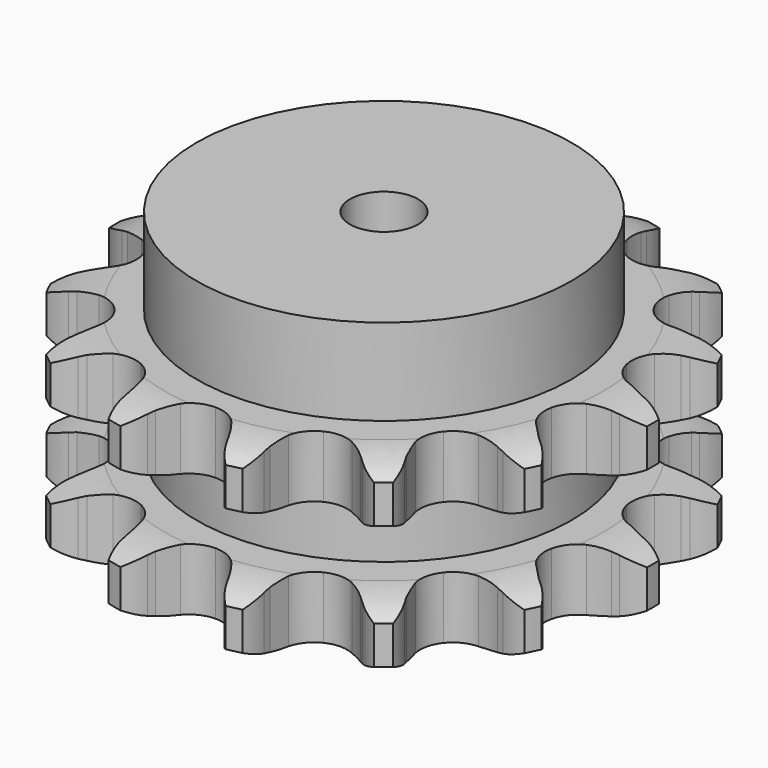
from build123d import *

# Parameters (mm, degrees)
PAD_DEPTH         = 54.6
SKETCH001_R       = 55
PAD001_DEPTH      = 80
SKETCH002_R       = 10
POCKET_DEPTH      = 0.001
POCKET_DEPTH_BACK = 80.001


with BuildPart() as part:
    # Sprocket → Pad (new body)
    with BuildSketch(Plane.XY):
        with BuildLine():
            ThreePointArc((-18.099318, 79.298294), (-14.280151, 76.270886), (-11.550964, 72.233217))
            Line((-11.550964, 72.233217), (-10.674023, 70.376836))
            ThreePointArc((-10.674023, 70.376836), (-9.212948, 67.717581), (-7.438683, 65.256208))
            ThreePointArc((-7.438683, 65.256208), (-4.115883, 62.656814), (0, 61.730877))
            ThreePointArc((0, 61.730877), (4.115883, 62.656814), (7.438683, 65.256208))
            ThreePointArc((7.438683, 65.256208), (9.212948, 67.717581), (10.674023, 70.376836))
            Line((10.674023, 70.376836), (11.550964, 72.233217))
            ThreePointArc((11.550964, 72.233217), (14.280151, 76.270886), (18.099318, 79.298294))
            ThreePointArc((18.099318, 79.298294), (20.226725, 74.913619), (20.933759, 70.091655))
            Line((20.933759, 70.091655), (20.918402, 68.038623))
            ThreePointArc((20.918402, 68.038623), (21.080977, 65.00878), (21.611586, 62.021335))
            ThreePointArc((21.611586, 62.021335), (23.477491, 58.237653), (26.784024, 55.617599))
            ThreePointArc((26.784024, 55.617599), (30.894055, 54.666024), (35.015629, 55.566288))
            Line((35.015629, 55.566288), (40.152327, 58.776053))
            ThreePointArc((40.152327, 58.776053), (40.936753, 59.438563), (41.747877, 60.068104))
            ThreePointArc((41.747877, 60.068104), (45.958669, 62.521768), (50.713162, 63.592294))
            ThreePointArc((50.713162, 63.592294), (50.727451, 58.718792), (49.272295, 54.067582))
            Line((49.272295, 54.067582), (48.367681, 52.224526))
            ThreePointArc((48.367681, 52.224526), (47.199557, 49.424194), (46.381415, 46.502376))
            ThreePointArc((46.381415, 46.502376), (46.420859, 42.283811), (48.263143, 38.488573))
            ThreePointArc((48.263143, 38.488573), (51.553281, 35.847958), (55.6573, 34.870783))
            Line((55.6573, 34.870783), (61.67797, 35.533952))
            ThreePointArc((61.67797, 35.533952), (62.672166, 35.790503), (63.676112, 36.005767))
            ThreePointArc((63.676112, 36.005767), (68.534509, 36.389448), (73.282643, 35.291061))
            ThreePointArc((73.282643, 35.291061), (71.180983, 30.893987), (67.851848, 27.33476))
            Line((67.851848, 27.33476), (66.237148, 26.066722))
            ThreePointArc((66.237148, 26.066722), (63.969686, 24.05054), (61.964836, 21.773052))
            ThreePointArc((61.964836, 21.773052), (60.170007, 17.955142), (60.183155, 13.736412))
            ThreePointArc((60.183155, 13.736412), (62.001747, 9.929764), (65.275361, 7.268693))
            Line((65.275361, 7.268693), (70.987535, 5.253916))
            ThreePointArc((70.987535, 5.253916), (71.994588, 5.053695), (72.992511, 4.812046))
            ThreePointArc((72.992511, 4.812046), (77.536248, 3.049751), (81.337597, 0))
            ThreePointArc((81.337597, 0), (77.536248, -3.049751), (72.992511, -4.812046))
            Line((72.992511, -4.812046), (70.987535, -5.253916))
            ThreePointArc((70.987535, -5.253916), (68.069833, -6.086619), (65.275361, -7.268693))
            ThreePointArc((65.275361, -7.268693), (62.001747, -9.929764), (60.183155, -13.736412))
            ThreePointArc((60.183155, -13.736412), (60.170007, -17.955142), (61.964836, -21.773052))
            Line((61.964836, -21.773052), (66.237148, -26.066722))
            ThreePointArc((66.237148, -26.066722), (67.057599, -26.684059), (67.851848, -27.33476))
            ThreePointArc((67.851848, -27.33476), (71.180983, -30.893987), (73.282643, -35.291061))
            ThreePointArc((73.282643, -35.291061), (68.534509, -36.389448), (63.676112, -36.005767))
            Line((63.676112, -36.005767), (61.67797, -35.533952))
            ThreePointArc((61.67797, -35.533952), (58.687916, -35.018248), (55.6573, -34.870783))
            ThreePointArc((55.6573, -34.870783), (51.553281, -35.847958), (48.263143, -38.488573))
            ThreePointArc((48.263143, -38.488573), (46.420859, -42.283811), (46.381415, -46.502376))
            Line((46.381415, -46.502376), (48.367681, -52.224526))
            ThreePointArc((48.367681, -52.224526), (48.83903, -53.136708), (49.272295, -54.067582))
            ThreePointArc((49.272295, -54.067582), (50.727451, -58.718792), (50.713162, -63.592294))
            ThreePointArc((50.713162, -63.592294), (45.958669, -62.521768), (41.747877, -60.068104))
            Line((41.747877, -60.068104), (40.152327, -58.776053))
            ThreePointArc((40.152327, -58.776053), (37.682137, -57.014083), (35.015629, -55.566288))
            ThreePointArc((35.015629, -55.566288), (30.894055, -54.666024), (26.784024, -55.617599))
            ThreePointArc((26.784024, -55.617599), (23.477491, -58.237653), (21.611586, -62.021335))
            Line((21.611586, -62.021335), (20.918402, -68.038623))
            ThreePointArc((20.918402, -68.038623), (20.947292, -69.06498), (20.933759, -70.091655))
            ThreePointArc((20.933759, -70.091655), (20.226725, -74.913619), (18.099318, -79.298294))
            ThreePointArc((18.099318, -79.298294), (14.280151, -76.270886), (11.550964, -72.233217))
            Line((11.550964, -72.233217), (10.674023, -70.376836))
            ThreePointArc((10.674023, -70.376836), (9.212948, -67.717581), (7.438683, -65.256208))
            ThreePointArc((7.438683, -65.256208), (4.115883, -62.656814), (0, -61.730877))
            ThreePointArc((0, -61.730877), (-4.115883, -62.656814), (-7.438683, -65.256208))
            Line((-7.438683, -65.256208), (-10.674023, -70.376836))
            ThreePointArc((-10.674023, -70.376836), (-11.093314, -71.314086), (-11.550964, -72.233217))
            ThreePointArc((-11.550964, -72.233217), (-14.280151, -76.270886), (-18.099318, -79.298294))
            ThreePointArc((-18.099318, -79.298294), (-20.226725, -74.913619), (-20.933759, -70.091655))
            Line((-20.933759, -70.091655), (-20.918402, -68.038623))
            ThreePointArc((-20.918402, -68.038623), (-21.080977, -65.00878), (-21.611586, -62.021335))
            ThreePointArc((-21.611586, -62.021335), (-23.477491, -58.237653), (-26.784024, -55.617599))
            ThreePointArc((-26.784024, -55.617599), (-30.894055, -54.666024), (-35.015629, -55.566288))
            Line((-35.015629, -55.566288), (-40.152327, -58.776053))
            ThreePointArc((-40.152327, -58.776053), (-40.936753, -59.438563), (-41.747877, -60.068104))
            ThreePointArc((-41.747877, -60.068104), (-45.958669, -62.521768), (-50.713162, -63.592294))
            ThreePointArc((-50.713162, -63.592294), (-50.727451, -58.718792), (-49.272295, -54.067582))
            Line((-49.272295, -54.067582), (-48.367681, -52.224526))
            ThreePointArc((-48.367681, -52.224526), (-47.199557, -49.424194), (-46.381415, -46.502376))
            ThreePointArc((-46.381415, -46.502376), (-46.420859, -42.283811), (-48.263143, -38.488573))
            ThreePointArc((-48.263143, -38.488573), (-51.553281, -35.847958), (-55.6573, -34.870783))
            Line((-55.6573, -34.870783), (-61.67797, -35.533952))
            ThreePointArc((-61.67797, -35.533952), (-62.672166, -35.790503), (-63.676112, -36.005767))
            ThreePointArc((-63.676112, -36.005767), (-68.534509, -36.389448), (-73.282643, -35.291061))
            ThreePointArc((-73.282643, -35.291061), (-71.180983, -30.893987), (-67.851848, -27.33476))
            Line((-67.851848, -27.33476), (-66.237148, -26.066722))
            ThreePointArc((-66.237148, -26.066722), (-63.969686, -24.05054), (-61.964836, -21.773052))
            ThreePointArc((-61.964836, -21.773052), (-60.170007, -17.955142), (-60.183155, -13.736412))
            ThreePointArc((-60.183155, -13.736412), (-62.001747, -9.929764), (-65.275361, -7.268693))
            Line((-65.275361, -7.268693), (-70.987535, -5.253916))
            ThreePointArc((-70.987535, -5.253916), (-71.994588, -5.053695), (-72.992511, -4.812046))
            ThreePointArc((-72.992511, -4.812046), (-77.536248, -3.049751), (-81.337597, 0))
            ThreePointArc((-81.337597, 0), (-77.536248, 3.049751), (-72.992511, 4.812046))
            Line((-72.992511, 4.812046), (-70.987535, 5.253916))
            ThreePointArc((-70.987535, 5.253916), (-68.069833, 6.086619), (-65.275361, 7.268693))
            ThreePointArc((-65.275361, 7.268693), (-62.001747, 9.929764), (-60.183155, 13.736412))
            ThreePointArc((-60.183155, 13.736412), (-60.170007, 17.955142), (-61.964836, 21.773052))
            Line((-61.964836, 21.773052), (-66.237148, 26.066722))
            ThreePointArc((-66.237148, 26.066722), (-67.057599, 26.684059), (-67.851848, 27.33476))
            ThreePointArc((-67.851848, 27.33476), (-71.180983, 30.893987), (-73.282643, 35.291061))
            ThreePointArc((-73.282643, 35.291061), (-68.534509, 36.389448), (-63.676112, 36.005767))
            Line((-63.676112, 36.005767), (-61.67797, 35.533952))
            ThreePointArc((-61.67797, 35.533952), (-58.687916, 35.018248), (-55.6573, 34.870783))
            ThreePointArc((-55.6573, 34.870783), (-51.553281, 35.847958), (-48.263143, 38.488573))
            ThreePointArc((-48.263143, 38.488573), (-46.420859, 42.283811), (-46.381415, 46.502376))
            Line((-46.381415, 46.502376), (-48.367681, 52.224526))
            ThreePointArc((-48.367681, 52.224526), (-48.83903, 53.136708), (-49.272295, 54.067582))
            ThreePointArc((-49.272295, 54.067582), (-50.727451, 58.718792), (-50.713162, 63.592294))
            ThreePointArc((-50.713162, 63.592294), (-45.958669, 62.521768), (-41.747877, 60.068104))
            Line((-41.747877, 60.068104), (-40.152327, 58.776053))
            ThreePointArc((-40.152327, 58.776053), (-37.682137, 57.014083), (-35.015629, 55.566288))
            ThreePointArc((-35.015629, 55.566288), (-30.894055, 54.666024), (-26.784024, 55.617599))
            ThreePointArc((-26.784024, 55.617599), (-23.477491, 58.237653), (-21.611586, 62.021335))
            Line((-21.611586, 62.021335), (-20.918402, 68.038623))
            ThreePointArc((-20.918402, 68.038623), (-20.947292, 69.06498), (-20.933759, 70.091655))
            ThreePointArc((-20.933759, 70.091655), (-20.226725, 74.913619), (-18.099318, 79.298294))
        make_face()
    extrude(amount=PAD_DEPTH)

    # Sketch → Groove (revolve, cut)
    with BuildSketch(Plane.XZ):
        with BuildLine():
            ThreePointArc((64.348368, 0), (71.831683, 0.887302), (78.9, 3.5))
            Line((78.9, 3.5), (78.9, 14.7))
            ThreePointArc((78.9, 14.7), (71.831683, 17.312698), (64.348368, 18.2))
            Line((55, 18.2), (64.348368, 18.2))
            Line((55, 36.4), (55, 18.2))
            Line((64.348368, 36.4), (55, 36.4))
            ThreePointArc((64.348368, 36.4), (71.831683, 37.287302), (78.9, 39.9))
            Line((78.9, 39.9), (78.9, 51.1))
            ThreePointArc((78.9, 51.1), (71.831683, 53.712698), (64.348368, 54.6))
            Line((64.348368, 54.6), (88.9, 54.6))
            Line((88.9, 54.6), (88.9, 0))
            Line((64.348368, 0), (88.9, 0))
        make_face()
    revolve(axis=Axis((0, 0, 0), (0, 0, 1)), mode=Mode.SUBTRACT)

    # Sketch001 → Pad001 (join)
    with BuildSketch(Plane.XY):
        Circle(SKETCH001_R)
    extrude(amount=PAD001_DEPTH)

    # Sketch002 → Pocket (cut, two sides)
    with BuildSketch(Plane.XY) as pocket_sk:
        Circle(SKETCH002_R)
    extrude(amount=-POCKET_DEPTH, mode=Mode.SUBTRACT)
    extrude(pocket_sk.sketch, amount=POCKET_DEPTH_BACK, mode=Mode.SUBTRACT)


solid = part.part
